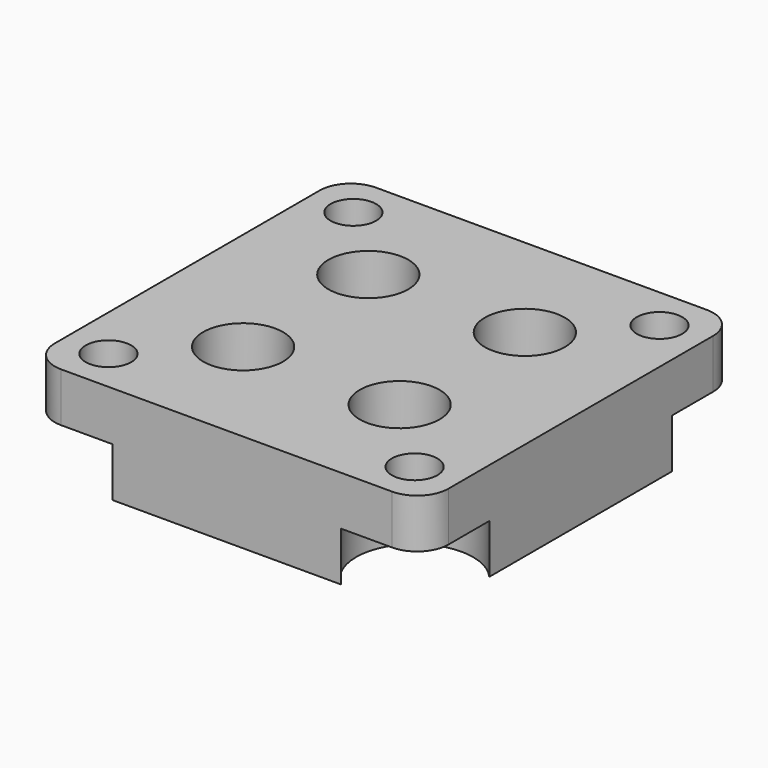
from build123d import *

# Parameters (mm, degrees)
F0_R     = 3.25
F0_R_2   = 1.85
F1_DEPTH = 4
F2_DEPTH = 4
F3_R     = 2.54


with BuildPart() as f1:
    # F0 (on Top) → F1 (new body)
    with BuildSketch(Plane.XY):
        with BuildLine():
            ThreePointArc((16, 9.294458), (9.088031, 9.088031), (9.294458, 16))
            Line((9.294458, 16), (-9.294458, 16))
            ThreePointArc((-9.294458, 16), (-8.114579, 14.394727), (-7.696788, 12.446788))
            ThreePointArc((-7.696788, 12.446788), (-10.760855, 8.006053), (-16, 9.294458))
            Line((-16, 9.294458), (-16, -9.294458))
            ThreePointArc((-16, -9.294458), (-10.760855, -8.006053), (-7.696788, -12.446788))
            ThreePointArc((-7.696788, -12.446788), (-8.114579, -14.394727), (-9.294458, -16))
            Line((-9.294458, -16), (9.294458, -16))
            ThreePointArc((9.294458, -16), (9.088031, -9.088031), (16, -9.294458))
            Line((16, -9.294458), (16, 9.294458))
        make_face()
        with Locations((-6.363961, -6.363961)):
            Circle(F0_R, mode=Mode.SUBTRACT)
        with Locations((6.363961, -6.363961)):
            Circle(F0_R, mode=Mode.SUBTRACT)
        with Locations((-6.363961, 6.363961)):
            Circle(F0_R, mode=Mode.SUBTRACT)
        with Locations((6.363961, 6.363961)):
            Circle(F0_R, mode=Mode.SUBTRACT)
        with BuildLine():
            ThreePointArc((-7.696788, 12.446788), (-8.114579, 14.394727), (-9.294458, 16))
            Line((-9.294458, 16), (-15.599119, 16))
            ThreePointArc((-15.599119, 16), (-15.805546, 15.805546), (-16, 15.599119))
            Line((-16, 15.599119), (-16, 9.294458))
            ThreePointArc((-16, 9.294458), (-10.760855, 8.006053), (-7.696788, 12.446788))
        make_face()
        with Locations((-12.446788, 12.446788)):
            Circle(F0_R_2, mode=Mode.SUBTRACT)
        with BuildLine():
            ThreePointArc((16, 15.599119), (15.805546, 15.805546), (15.599119, 16))
            Line((15.599119, 16), (9.294458, 16))
            ThreePointArc((9.294458, 16), (9.088031, 9.088031), (16, 9.294458))
            Line((16, 9.294458), (16, 15.599119))
        make_face()
        with Locations((12.446788, 12.446788)):
            Circle(F0_R_2, mode=Mode.SUBTRACT)
        with BuildLine():
            Line((16, -15.599119), (16, -9.294458))
            ThreePointArc((16, -9.294458), (9.088031, -9.088031), (9.294458, -16))
            Line((9.294458, -16), (15.599119, -16))
            ThreePointArc((15.599119, -16), (15.805546, -15.805546), (16, -15.599119))
        make_face()
        with Locations((12.446788, -12.446788)):
            Circle(F0_R_2, mode=Mode.SUBTRACT)
        with BuildLine():
            Line((-15.599119, -16), (-9.294458, -16))
            ThreePointArc((-9.294458, -16), (-8.114579, -14.394727), (-7.696788, -12.446788))
            ThreePointArc((-7.696788, -12.446788), (-10.760855, -8.006053), (-16, -9.294458))
            Line((-16, -9.294458), (-16, -15.599119))
            ThreePointArc((-16, -15.599119), (-15.805546, -15.805546), (-15.599119, -16))
        make_face()
        with Locations((-12.446788, -12.446788)):
            Circle(F0_R_2, mode=Mode.SUBTRACT)
        with BuildLine():
            ThreePointArc((-16, 15.599119), (-15.805546, 15.805546), (-15.599119, 16))
            Line((-15.599119, 16), (-16, 16))
            Line((-16, 16), (-16, 15.599119))
        make_face()
        with BuildLine():
            Line((16, 15.599119), (16, 16))
            Line((16, 16), (15.599119, 16))
            ThreePointArc((15.599119, 16), (15.805546, 15.805546), (16, 15.599119))
        make_face()
        with BuildLine():
            Line((16, -16), (16, -15.599119))
            ThreePointArc((16, -15.599119), (15.805546, -15.805546), (15.599119, -16))
            Line((15.599119, -16), (16, -16))
        make_face()
        with BuildLine():
            Line((-16, -16), (-15.599119, -16))
            ThreePointArc((-15.599119, -16), (-15.805546, -15.805546), (-16, -15.599119))
            Line((-16, -15.599119), (-16, -16))
        make_face()
    extrude(amount=F1_DEPTH)

    # F0 (on Top) → F2 (join)
    with BuildSketch(Plane.XY):
        with BuildLine():
            ThreePointArc((16, 9.294458), (9.088031, 9.088031), (9.294458, 16))
            Line((9.294458, 16), (-9.294458, 16))
            ThreePointArc((-9.294458, 16), (-8.114579, 14.394727), (-7.696788, 12.446788))
            ThreePointArc((-7.696788, 12.446788), (-10.760855, 8.006053), (-16, 9.294458))
            Line((-16, 9.294458), (-16, -9.294458))
            ThreePointArc((-16, -9.294458), (-10.760855, -8.006053), (-7.696788, -12.446788))
            ThreePointArc((-7.696788, -12.446788), (-8.114579, -14.394727), (-9.294458, -16))
            Line((-9.294458, -16), (9.294458, -16))
            ThreePointArc((9.294458, -16), (9.088031, -9.088031), (16, -9.294458))
            Line((16, -9.294458), (16, 9.294458))
        make_face()
        with Locations((-6.363961, -6.363961)):
            Circle(F0_R, mode=Mode.SUBTRACT)
        with Locations((6.363961, -6.363961)):
            Circle(F0_R, mode=Mode.SUBTRACT)
        with Locations((-6.363961, 6.363961)):
            Circle(F0_R, mode=Mode.SUBTRACT)
        with Locations((6.363961, 6.363961)):
            Circle(F0_R, mode=Mode.SUBTRACT)
        with Locations((-6.363961, -6.363961)):
            Circle(F0_R)
        with Locations((-6.363961, -6.363961)):
            Circle(F0_R_2, mode=Mode.SUBTRACT)
        with Locations((6.363961, -6.363961)):
            Circle(F0_R)
        with Locations((6.363961, -6.363961)):
            Circle(F0_R_2, mode=Mode.SUBTRACT)
        with Locations((6.363961, 6.363961)):
            Circle(F0_R)
        with Locations((6.363961, 6.363961)):
            Circle(F0_R_2, mode=Mode.SUBTRACT)
        with Locations((-6.363961, 6.363961)):
            Circle(F0_R)
        with Locations((-6.363961, 6.363961)):
            Circle(F0_R_2, mode=Mode.SUBTRACT)
    extrude(amount=-F2_DEPTH)

    # F3
    f3_edges = [f1.edges().sort_by_distance(p)[0] for p in [
        (16, 16, 2),
        (-16, 16, 2),
        (-16, -16, 2),
        (16, -16, 2),
    ]]
    fillet(f3_edges, radius=F3_R)


solid = f1.part
